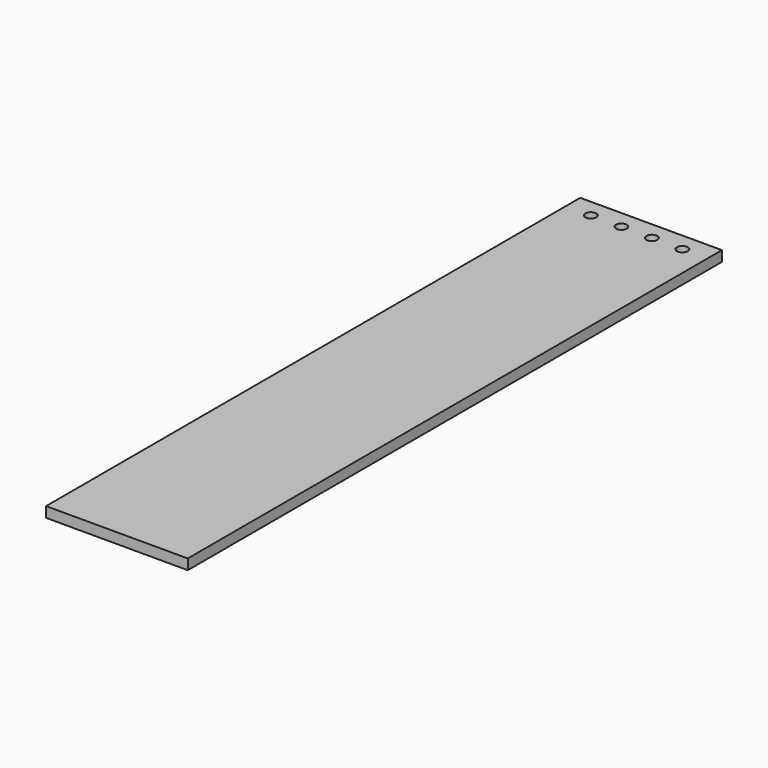
from build123d import *

# Parameters (mm, degrees)
F0_W     = 130.175
F0_H     = 9.525
F1_DEPTH = 613.39984
F2_R     = 5
F3_DEPTH = 25


with BuildPart() as f1:
    # F0 (on Front) → F1 (new body)
    with BuildSketch(Plane.XZ):
        with Locations((-13.76359, -20.229339)):
            Rectangle(F0_W, F0_H)
    extrude(amount=F1_DEPTH)

    # F2 (on face) → F3 (cut)
    with BuildSketch(Plane.XY.offset(-15.466839)):
        with Locations((-55.81609, -16.625)):
            Circle(F2_R)
        with Locations((-27.78109, -16.625)):
            Circle(F2_R)
        with Locations((0.25391, -16.625)):
            Circle(F2_R)
        with Locations((28.28891, -16.625)):
            Circle(F2_R)
    extrude(amount=-F3_DEPTH, mode=Mode.SUBTRACT)


solid = f1.part
